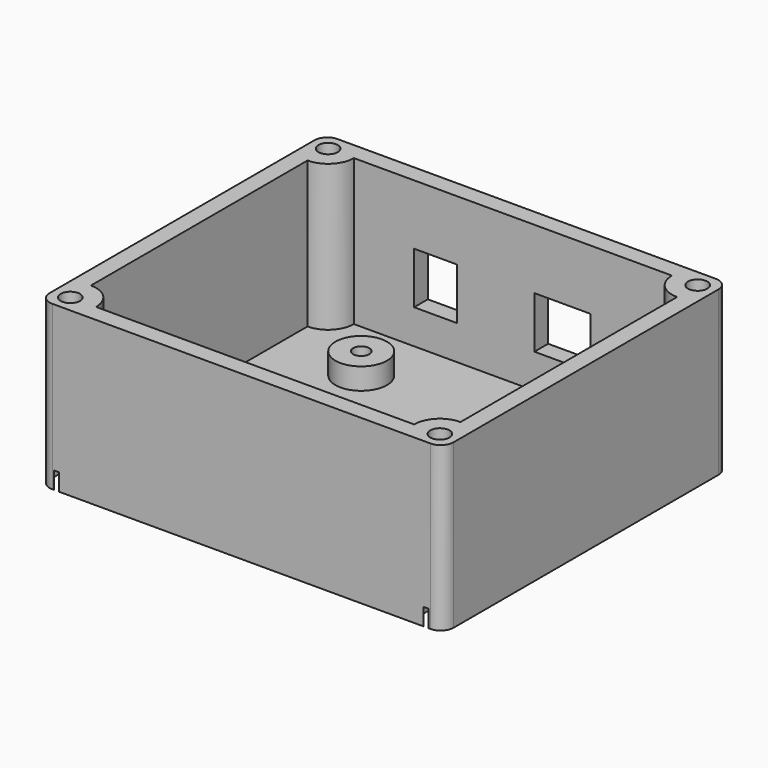
from build123d import *

# Parameters (mm, degrees)
SKETCH_W        = 94
SKETCH_H        = 83
PAD_DEPTH       = 38
POCKET_DEPTH    = 34
SKETCH002_R     = 6
PAD001_DEPTH    = 5
SKETCH004_W     = 13
SKETCH004_H     = 12
SKETCH004_W_2   = 10
POCKET001_DEPTH = 5
SKETCH005_R     = 1.9
POCKET002_DEPTH = 9.001
POCKET003_DEPTH = 4
SKETCH007_R     = 2.25
POCKET004_DEPTH = 38.001
POCKET005_DEPTH = 4
FILLET_R        = 3
FILLET001_R     = 3
FILLET002_R     = 3
FILLET003_R     = 3


with BuildPart() as part:
    # Sketch → Pad (new body)
    with BuildSketch(Plane.XY):
        Rectangle(SKETCH_W, SKETCH_H)
    extrude(amount=PAD_DEPTH)

    # Sketch001 (on Face6 of Pad) → Pocket (cut)
    with BuildSketch(Plane.XY.offset(38)):
        with BuildLine():
            Line((-37, 37.5), (37, 37.5))
            ThreePointArc((37, 37.5), (38.757359, 33.257359), (43, 31.5))
            Line((43, 31.5), (43, -31.5))
            ThreePointArc((43, -31.5), (38.757359, -33.257359), (37, -37.5))
            Line((37, -37.5), (-37, -37.5))
            ThreePointArc((-37, -37.5), (-38.757359, -33.257359), (-43, -31.5))
            Line((-43, -31.5), (-43, 31.5))
            ThreePointArc((-43, 31.5), (-38.757359, 33.257359), (-37, 37.5))
        make_face()
    extrude(amount=-POCKET_DEPTH, mode=Mode.SUBTRACT)

    # Sketch002 (on Face15 of Pocket) → Pad001 (join)
    with BuildSketch(Plane.XY.offset(4)):
        with Locations((-23.3, 22.5)):
            Circle(SKETCH002_R)
        with Locations((24.5, 21.4)):
            Circle(SKETCH002_R)
        with Locations((-18.6, -29.4)):
            Circle(SKETCH002_R)
        with Locations((9.3, -29.4)):
            Circle(SKETCH002_R)
    extrude(amount=PAD001_DEPTH)

    # Sketch004 → Pocket001 (cut)
    with BuildSketch(Plane(origin=(0, 41.5, 0), x_dir=(-1, 0, 0), z_dir=(0, 1, 0))):
        with Locations((-11.5, 18)):
            Rectangle(SKETCH004_W, SKETCH004_H)
        with Locations((18, 18)):
            Rectangle(SKETCH004_W_2, SKETCH004_H)
    extrude(amount=-POCKET001_DEPTH, mode=Mode.SUBTRACT)

    # Sketch005 (on Face30 of Pocket001) → Pocket002 (cut, through all)
    with BuildSketch(Plane.XY.offset(9)):
        with Locations((-23.3, 22.5)):
            Circle(SKETCH005_R)
        with Locations((24.5, 21.4)):
            Circle(SKETCH005_R)
        with Locations((-18.6, -29.4)):
            Circle(SKETCH005_R)
        with Locations((9.3, -29.4)):
            Circle(SKETCH005_R)
    extrude(amount=-POCKET002_DEPTH, mode=Mode.SUBTRACT)

    # Sketch006 (on Face3 of Pocket002) → Pocket003 (cut)
    with BuildSketch(Plane(origin=(0, 0, 0), x_dir=(1, 0, 0), z_dir=(0, 0, -1))):
        Polygon((-15.75, 27.754552), (-15.75, 31.045448), (-18.6, 32.690897), (-21.45, 31.045448), (-21.45, 27.754552), (-18.6, 26.109103), align=None)
        Polygon((12.15, 27.754552), (12.15, 31.045448), (9.3, 32.690897), (6.45, 31.045448), (6.45, 27.754552), (9.3, 26.109103), align=None)
        Polygon((-20.45, -24.145448), (-20.45, -20.854552), (-23.3, -19.209103), (-26.15, -20.854552), (-26.15, -24.145448), (-23.3, -25.790897), align=None)
        Polygon((27.35, -23.045448), (27.35, -19.754552), (24.5, -18.109103), (21.65, -19.754552), (21.65, -23.045448), (24.5, -24.690897), align=None)
    extrude(amount=-POCKET003_DEPTH, mode=Mode.SUBTRACT)

    # Sketch007 (on Face4 of Pocket003) → Pocket004 (cut, through all)
    with BuildSketch(Plane.XY.offset(38)):
        with Locations((-43, 37.5)):
            Circle(SKETCH007_R)
        with Locations((43, 37.5)):
            Circle(SKETCH007_R)
        with Locations((43, -37.5)):
            Circle(SKETCH007_R)
        with Locations((-43, -37.5)):
            Circle(SKETCH007_R)
    extrude(amount=-POCKET004_DEPTH, mode=Mode.SUBTRACT)

    # Sketch008 (on Face3 of Pocket004) → Pocket005 (cut)
    with BuildSketch(Plane(origin=(0, 0, 0), x_dir=(1, 0, 0), z_dir=(0, 0, -1))):
        Polygon((-43, -41.830127), (-39.25, -39.665064), (-39.25, -35.334936), (-43, -33.169873), (-46.75, -35.334936), (-46.75, -39.665064), align=None)
        Polygon((43, -41.830127), (46.75, -39.665064), (46.75, -35.334936), (43, -33.169873), (39.25, -35.334936), (39.25, -39.665064), align=None)
        Polygon((-39.25, 35.334936), (-39.25, 39.665064), (-43, 41.830127), (-46.75, 39.665064), (-46.75, 35.334936), (-43, 33.169873), align=None)
        Polygon((43, 33.169873), (46.75, 35.334936), (46.75, 39.665064), (43, 41.830127), (39.25, 39.665064), (39.25, 35.334936), align=None)
    extrude(amount=-POCKET005_DEPTH, mode=Mode.SUBTRACT)

    # Fillet
    fillet_edges = [part.edges().sort_by_distance(p)[0] for p in [
        (-47, 41.5, 19),
    ]]
    fillet(fillet_edges, radius=FILLET_R)

    # Fillet001
    fillet001_edges = [part.edges().sort_by_distance(p)[0] for p in [
        (-47, -41.5, 19),
    ]]
    fillet(fillet001_edges, radius=FILLET001_R)

    # Fillet002
    fillet002_edges = [part.edges().sort_by_distance(p)[0] for p in [
        (47, -41.5, 19),
    ]]
    fillet(fillet002_edges, radius=FILLET002_R)

    # Fillet003
    fillet003_edges = [part.edges().sort_by_distance(p)[0] for p in [
        (47, 41.5, 19),
    ]]
    fillet(fillet003_edges, radius=FILLET003_R)


solid = part.part
